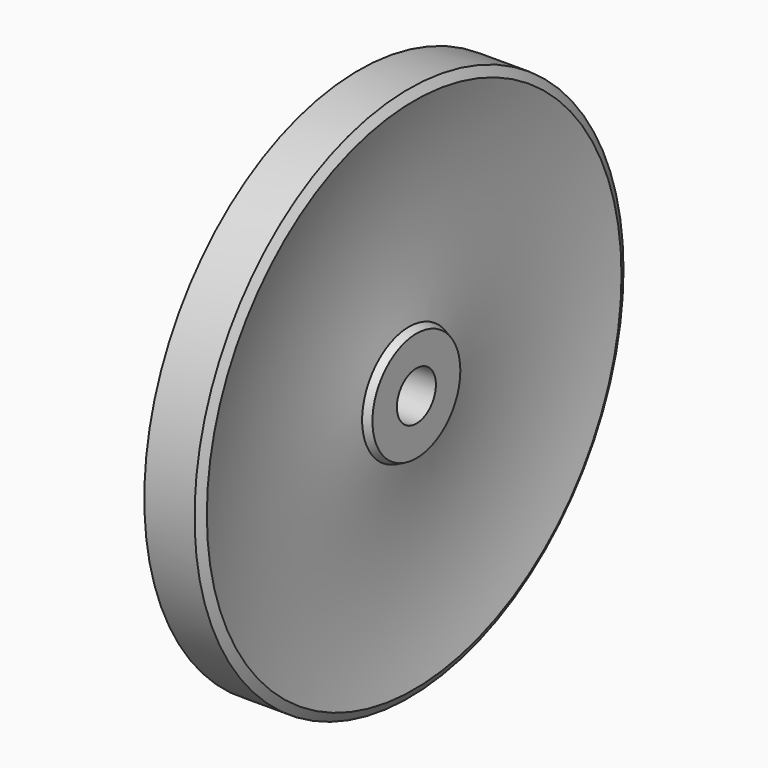
from build123d import *


with BuildPart() as f1:
    # F0 (on Top) → F1 (revolve)
    with BuildSketch(Plane.XY):
        with BuildLine():
            Line((0, 16.5), (0, 1.5))
            Line((0, 1.5), (2, 1.5))
            Line((2, 1.5), (2, 3.380934))
            Line((2, 3.380934), (1.538045, 3.596347))
            ThreePointArc((1.538045, 3.596347), (1.057793, 9.790565), (1.863727, 15.950878))
            Line((1.863727, 15.950878), (1.546691, 16.5))
            Line((1.546691, 16.5), (0, 16.5))
        make_face()
        with BuildLine():
            Line((-2, 1.5), (0, 1.5))
            Line((0, 1.5), (0, 16.5))
            Line((0, 16.5), (-1.546691, 16.5))
            Line((-1.546691, 16.5), (-1.863727, 15.950878))
            ThreePointArc((-1.863727, 15.950878), (-1.057793, 9.790565), (-1.538045, 3.596347))
            Line((-1.538045, 3.596347), (-2, 3.380934))
            Line((-2, 3.380934), (-2, 1.5))
        make_face()
    revolve(axis=Axis((0.653626, 0, 0), (1, 0, 0)))


solid = f1.part
